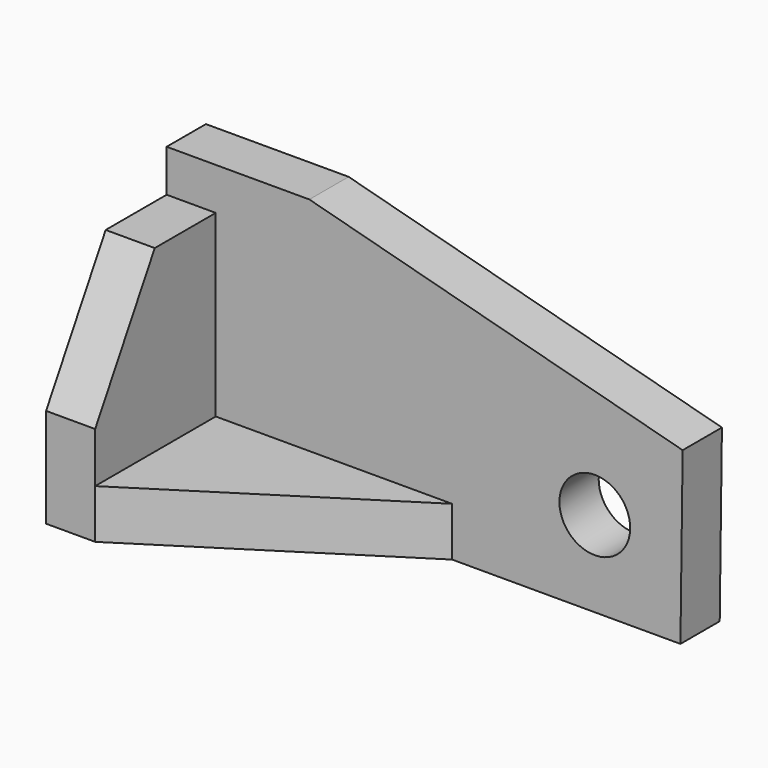
from build123d import *

# Parameters (mm, degrees)
F1_DEPTH = 10.922
F3_D     = 15.748
F4_W     = 52.578
F4_H     = 10.922
F5_DEPTH = 33.528
F7_DEPTH = 10.923
F9_DEPTH = 10.923


with BuildPart() as f1:
    # F0 (on Front) → F1 (new body)
    with BuildSketch(Plane.XZ):
        Polygon((-63.170578, 37.902282), (-94.920578, 37.902282), (-94.920578, -22.295718), (-63.170578, -22.295718), (19.379422, -22.295718), (19.869562, 15.804282), align=None)
    extrude(amount=F1_DEPTH)

    # F3 (through all)
    with Locations(Plane.XZ.offset(10.922)):
        with Locations((0.330998, -3.245718)):
            Hole(F3_D / 2)

    # F4 (on face) → F5 (join)
    with BuildSketch(Plane.XZ.offset(10.922)):
        with Locations((-57.709578, -16.834718)):
            Rectangle(F4_W, F4_H)
        Polygon((-94.920578, -11.373718), (-94.920578, -22.295718), (-83.998578, -22.295718), (-83.998578, -11.373718), (-83.998578, 28.504282), (-94.920578, 28.504282), align=None)
    extrude(amount=F5_DEPTH)

    # F6 (on face) → F7 (cut, through all)
    with BuildSketch(Plane.YZ.offset(-83.998578)):
        Polygon((-44.45, -0.197718), (-27.878893, 28.504282), (-44.45, 28.504282), align=None)
    extrude(amount=-F7_DEPTH, mode=Mode.SUBTRACT)

    # F8 (on face) → F9 (cut, through all)
    with BuildSketch(Plane.XY.offset(-11.373718)):
        Polygon((-31.420578, -10.922), (-83.998578, -44.45), (-31.420578, -44.45), align=None)
    extrude(amount=-F9_DEPTH, mode=Mode.SUBTRACT)


solid = f1.part
